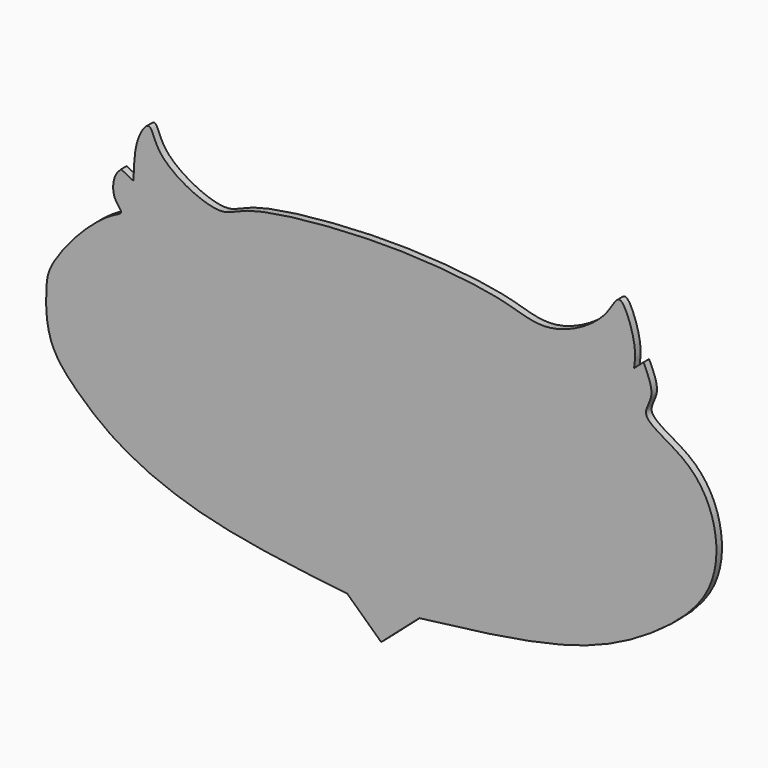
from build123d import *

# Parameters (mm, degrees)
F1_DEPTH = 1.5875
F2_DEPTH = 1.5875


with BuildPart() as f1:
    # F0 (on Front) → F1 (new body)
    with BuildSketch(Plane.XZ):
        with BuildLine():
            add(Edge.make_bspline(
                [(-59.2357292771, 0), (-59.7596059699, -0.5087763955), (-61.00374777, -1.7170568732), (-61.3623939884, -6.4442855853), (-58.3860835137, -8.7344477825), (-61.6361250655, -9.812548713), (-68.5333012636, -15.1619816081), (-75.7003591382, -24.3459306528), (-76.4504615567, -29.4899375643), (-76.3056806318, -40.2496750458), (-69.3199338704, -48.02035996), (-59.1909187166, -56.46900862), (-39.1926921937, -64.7251350769), (-18.9409775047, -67.0624654511), (-7.7288052998, -68.3565065265)],
                knots=[0, 0, 0, 0, 0.0430869026, 0.1023260194, 0.1480820916, 0.1886517783, 0.273749377, 0.368934231, 0.4329751281, 0.521535998, 0.6107122698, 0.7111554455, 0.8400839171, 1, 1, 1, 1], degree=3))
            Line((-7.7288052998, -68.3565065265), (0, -75.5522912198))
            Line((0, -75.5522912198), (8.6890272796, -67.9272785783))
            add(Edge.make_bspline(
                [(8.6890272796, -67.9272785783), (21.5020345675, -66.3925749588), (44.1191868011, -63.6835602353), (63.1430598193, -53.4908705309), (75.6969418313, -42.2147338387), (77.3134091979, -28.3935571418), (71.2293681343, -16.0138035637), (58.0845752111, -11.3266463316), (62.6777880395, -6.2052573904), (60.8058061073, -2.2149081201), (59.7667321563, 0)],
                knots=[0, 0, 0, 0, 0.2020750921, 0.3566971451, 0.4899081604, 0.6095954924, 0.7334616233, 0.8448841751, 0.9139004441, 1, 1, 1, 1], degree=3))
            Line((59.7667321563, 0), (57.6115497291, -1.891269612))
            add(Edge.make_bspline(
                [(57.6115497291, -1.891269612), (57.8173171438, -0.4763111229), (58.2831491365, 2.7269799993), (54.3955609907, 13.7165221365), (51.5061285832, 5.2868580937), (38.5436234556, -1.8540809789), (29.0588963585, 1.8983841422), (17.0728993683, 3.7264259799), (-2.5836330622, 5.0365044878), (-31.0291045292, 2.3116589866), (-36.5144885565, -2.8231885653), (-51.4195797017, 4.4231399421), (-52.351231671, 12.5665350661), (-56.2118192651, 7.0696730875), (-56.3328961042, 1.7719943046), (-56.4061077302, -1.4313572253)],
                knots=[0, 0, 0, 0, 0.0548014286, 0.1240636607, 0.1787700579, 0.2701907538, 0.3455821333, 0.4275645849, 0.5390950617, 0.6663997735, 0.7297150258, 0.8229317182, 0.8789043387, 0.9267769928, 1, 1, 1, 1], degree=3))
            Line((-56.4061077302, -1.4313572253), (-59.2357292771, 0))
        make_face()
        with BuildLine():
            ThreePointArc((62.7712979913, -48.2902638614), (36.0960540485, -60.801373499), (6.8648238666, -64.4934847951))
            Line((6.8648238666, -64.4934847951), (1.070294762, -70.7172378898))
            Line((1.070294762, -70.7172378898), (-5.4487906159, -64.6477442285))
            ThreePointArc((-5.4487906159, -64.6477442285), (-33.1849145902, -61.6573470529), (-59.1284260154, -51.4021404088))
            ThreePointArc((-59.1284260154, -51.4021404088), (-68.2041566517, -43.490922661), (-72.6489946246, -32.3016569018))
            ThreePointArc((-72.6489946246, -32.3016569018), (-70.5167481856, -24.2359465298), (-65.4594823718, -17.6007207483))
            ThreePointArc((-65.4594823718, -17.6007207483), (-60.7158899758, -13.6643104627), (-55.4800182581, -10.4112131521))
            ThreePointArc((-55.4800182581, -10.4112131521), (-57.7695720252, -7.8990729249), (-57.5188361108, -4.5093772933))
            ThreePointArc((-57.5188361108, -4.5093772933), (-54.6818050534, -6.009346749), (-51.5096895397, -6.4954915385))
            ThreePointArc((-51.5096895397, -6.4954915385), (-53.4709468256, -0.8916203218), (-53.7065769196, 5.0408649258))
            ThreePointArc((-53.7065769196, 5.0408649258), (-45.6081761104, -0.0632483052), (-37.1306762099, -4.5093772933))
            ThreePointArc((-37.1306762099, -4.5093772933), (0.2651828003, 1.2478062211), (37.7689823508, -3.7582353689))
            ThreePointArc((37.7689823508, -3.7582353689), (46.2458250792, -0.0220776028), (53.5429753363, 5.6847021915))
            ThreePointArc((53.5429753363, 5.6847021915), (54.6067557991, -0.7157013162), (52.2553026676, -6.7628049292))
            Line((52.2553026676, -6.7628049292), (58.3717487752, -4.2947647162))
            ThreePointArc((58.3717487752, -4.2947647162), (57.7853929693, -7.9420748723), (55.7964034379, -11.0550485551))
            ThreePointArc((55.7964034379, -11.0550485551), (65.3527326965, -17.9155744287), (71.5704038739, -27.9021058232))
            ThreePointArc((71.5704038739, -27.9021058232), (70.5523756086, -39.5555807138), (62.7712979913, -48.2902638614))
        make_face(mode=Mode.SUBTRACT)
        with BuildLine():
            Line((1.070294762, -70.7172378898), (6.8648238666, -64.4934847951))
            ThreePointArc((6.8648238666, -64.4934847951), (36.0960540485, -60.801373499), (62.7712979913, -48.2902638614))
            ThreePointArc((62.7712979913, -48.2902638614), (70.5523756086, -39.5555807138), (71.5704038739, -27.9021058232))
            ThreePointArc((71.5704038739, -27.9021058232), (65.3527326965, -17.9155744287), (55.7964034379, -11.0550485551))
            ThreePointArc((55.7964034379, -11.0550485551), (57.7853929693, -7.9420748723), (58.3717487752, -4.2947647162))
            Line((58.3717487752, -4.2947647162), (52.2553026676, -6.7628049292))
            ThreePointArc((52.2553026676, -6.7628049292), (54.6067557991, -0.7157013162), (53.5429753363, 5.6847021915))
            ThreePointArc((53.5429753363, 5.6847021915), (46.2458250792, -0.0220776028), (37.7689823508, -3.7582353689))
            ThreePointArc((37.7689823508, -3.7582353689), (0.2651828003, 1.2478062211), (-37.1306762099, -4.5093772933))
            ThreePointArc((-37.1306762099, -4.5093772933), (-45.6081761104, -0.0632483052), (-53.7065769196, 5.0408649258))
            ThreePointArc((-53.7065769196, 5.0408649258), (-53.4709468256, -0.8916203218), (-51.5096895397, -6.4954915385))
            ThreePointArc((-51.5096895397, -6.4954915385), (-54.6818050534, -6.009346749), (-57.5188361108, -4.5093772933))
            ThreePointArc((-57.5188361108, -4.5093772933), (-57.7695720252, -7.8990729249), (-55.4800182581, -10.4112131521))
            ThreePointArc((-55.4800182581, -10.4112131521), (-60.7158899758, -13.6643104627), (-65.4594823718, -17.6007207483))
            ThreePointArc((-65.4594823718, -17.6007207483), (-70.5167481856, -24.2359465298), (-72.6489946246, -32.3016569018))
            ThreePointArc((-72.6489946246, -32.3016569018), (-68.2041566517, -43.490922661), (-59.1284260154, -51.4021404088))
            ThreePointArc((-59.1284260154, -51.4021404088), (-33.1849145902, -61.6573470529), (-5.4487906159, -64.6477442285))
            Line((-5.4487906159, -64.6477442285), (1.070294762, -70.7172378898))
        make_face()
        with BuildLine():
            Line((-50.0074103475, -16.6349653155), (-48.6124269664, -17.8153328598))
            ThreePointArc((-48.6124269664, -17.8153328598), (-51.8600237223, -24.9776982035), (-51.617000252, -32.8381881118))
            Line((-51.617000252, -32.8381881118), (-55.265404284, -31.2285963446))
            add(Edge.make_bspline(
                [(-17.386354506, -50.1144677401), (-22.9724960998, -50.7953987205), (-34.2706963945, -52.172609533), (-50.5425044692, -43.6572072192), (-55.9866739518, -36.4960401055), (-55.4837729561, -32.8233462017), (-55.265404284, -31.2285963446)],
                knots=[0, 0, 0, 0, 0.3075519395, 0.6220364012, 0.8358813963, 1, 1, 1, 1], degree=3))
            Line((-17.386354506, -50.1144677401), (-19.6397826076, -54.7286309302))
            Line((-19.6397826076, -54.7286309302), (-13.4160285816, -53.1190410256))
            Line((-13.4160285816, -53.1190410256), (-9.3383966014, -60.4158528149))
            add(Edge.make_bspline(
                [(-50.0074103475, -16.6349653155), (-53.6208253934, -19.8234806389), (-60.8507431395, -26.2032358643), (-58.762664158, -42.3664765964), (-45.2648255888, -50.4822624002), (-35.7544140532, -56.0293491905), (-24.0468068887, -58.3858298268), (-9.5907632304, -60.4486232358), (-9.3576538975, -60.4183534217), (-9.3383966014, -60.4158528149)],
                knots=[0, 0, 0, 0, 0.1667763218, 0.3336951535, 0.5081392217, 0.6555495119, 0.821499441, 0.9852539661, 1, 1, 1, 1], degree=3))
        make_face(mode=Mode.SUBTRACT)
        with BuildLine():
            add(Edge.make_bspline(
                [(-40.3498597443, -22.5368011743), (-41.6391102014, -25.8708730448), (-44.2569145923, -32.6406577166), (-36.2841632265, -42.0200499295), (-19.5902032399, -44.9502171335), (-13.4243927469, -40.3096247345), (-10.6453151963, -38.2179992827)],
                knots=[0, 0, 0, 0, 0.2314315656, 0.4699184438, 0.7610796254, 1, 1, 1, 1], degree=3))
            Line((-40.3498597443, -22.5368011743), (-35.7662363223, -24.5589901806))
            add(Edge.make_bspline(
                [(-13.523333706, -36.7012061179), (-15.4137632298, -38.2771311693), (-19.5801724988, -41.7503887856), (-31.4195201419, -41.4414108341), (-38.8194485242, -33.5612417818), (-36.776895956, -27.5388722538), (-35.7662363223, -24.5589901806)],
                knots=[0, 0, 0, 0, 0.2280173022, 0.5025383857, 0.7538548673, 1, 1, 1, 1], degree=3))
            Line((-13.523333706, -36.7012061179), (-10.6453151963, -38.2179992827))
        make_face(mode=Mode.SUBTRACT)
        with BuildLine():
            ThreePointArc((-18.7813322991, -33.8039398193), (-24.8244059816, -35.7779646435), (-26.4000650495, -29.6190027148))
            Line((-26.4000650495, -29.6190027148), (-18.7813322991, -33.8039398193))
        make_face(mode=Mode.SUBTRACT)
        with BuildLine():
            ThreePointArc((1.4995191013, -37.2377373278), (7.8406058431, -51.9864878365), (0, -65.9957677126))
            ThreePointArc((0, -65.9957677126), (-6.7782408554, -53.7236985284), (-3.3292553853, -40.1349999011))
            ThreePointArc((-3.3292553853, -40.1349999011), (-4.9903607349, -51.2794326452), (0, -61.3816082478))
            Line((0, -61.3816082478), (1.4995191013, -37.2377373278))
        make_face(mode=Mode.SUBTRACT)
        with BuildLine():
            Line((11.461718307, -59.9891306942), (14.9127813056, -53.4409582615))
            Line((14.9127813056, -53.4409582615), (19.8488626629, -54.7286309302))
            Line((19.8488626629, -54.7286309302), (17.8100466728, -50.4363849759))
            add(Edge.make_bspline(
                [(17.8100466728, -50.4363849759), (22.8736972439, -50.6977149879), (32.8840342231, -51.2143386068), (46.4372168065, -46.5893989437), (55.8220494766, -37.9113824749), (55.879555258, -33.1297871275), (55.9037104249, -31.1212893575)],
                knots=[0, 0, 0, 0, 0.2851056864, 0.5636257785, 0.8167020446, 1, 1, 1, 1], degree=3))
            Line((55.9037104249, -31.1212893575), (52.1324010559, -32.9126605713))
            ThreePointArc((52.1324010559, -32.9126605713), (52.3343427132, -24.9303001847), (48.9288121462, -17.7080277354))
            Line((48.9288121462, -17.7080277354), (50.2245857241, -17.0925355389))
            ThreePointArc((50.2245857241, -17.0925355389), (55.152285008, -21.5169376862), (58.8009729981, -27.0436573774))
            ThreePointArc((58.8009729981, -27.0436573774), (58.1591030988, -37.1048918738), (52.5772199035, -45.5003082752))
            ThreePointArc((52.5772199035, -45.5003082752), (33.0881241824, -55.777284055), (11.461718307, -59.9891306942))
        make_face(mode=Mode.SUBTRACT)
        with BuildLine():
            Line((19.8488626629, -34.1258607805), (27.2529833019, -29.6190027148))
            ThreePointArc((27.2529833019, -29.6190027148), (25.8207552879, -35.6014402887), (19.8488626629, -34.1258607805))
        make_face(mode=Mode.SUBTRACT)
        with BuildLine():
            Line((35.6956343991, -25.2653629386), (40.9881621599, -22.7514132857))
            ThreePointArc((40.9881621599, -22.7514132857), (42.7533981745, -33.1083105218), (35.4767949976, -40.6867288759))
            ThreePointArc((35.4767949976, -40.6867288759), (22.6287955197, -43.1555219381), (10.5132311583, -38.2179992827))
            Line((10.5132311583, -38.2179992827), (14.2689440399, -36.271981895))
            ThreePointArc((14.2689440399, -36.271981895), (23.5486784179, -40.6867288759), (33.5840433836, -38.4742842924))
            ThreePointArc((33.5840433836, -38.4742842924), (38.2950984386, -32.4541569621), (35.6956343991, -25.2653629386))
        make_face(mode=Mode.SUBTRACT)
        with BuildLine():
            add(Edge.make_bspline(
                [(-50.6512448192, 0), (-49.9465646565, 0.6234373086), (-39.6465777283, -10.822659465), (-23.6643436705, -12.0991564868), (-10.4573806993, -21.1717940532), (-4.3437560779, -24.9584323596), (-0.2434439157, -36.9668415379), (-5.1097998002, -31.3621866583), (-12.4192891928, -25.9523472348), (-23.9809118135, -20.6913503107), (-36.0562860349, -16.1085291797), (-45.660706608, -11.9489061352), (-51.3032818782, -0.5768634492), (-50.6512448192, 0)],
                knots=[0, 0, 0, 0, 0.0981485842, 0.2149445601, 0.3211160362, 0.3998965502, 0.4797088254, 0.5318077649, 0.6183410319, 0.7170063852, 0.8150967729, 0.9091836019, 1, 1, 1, 1], degree=3))
        make_face(mode=Mode.SUBTRACT)
        with BuildLine():
            add(Edge.make_bspline(
                [(2.8944984078, -33.3747155964), (2.2737223281, -32.8508111555), (5.8582616163, -24.1643331539), (11.1966887984, -20.6828012031), (20.4091181596, -15.4189626268), (28.190893796, -11.370734004), (39.6560708791, -10.0568503783), (54.6284080306, 4.0328641758), (46.3253786103, -12.3225911195), (34.8879303244, -16.4717635447), (20.5751527115, -22.1502776194), (10.8228903495, -25.7378121215), (3.5496759959, -33.9276532163), (2.8944984078, -33.3747155964)],
                knots=[0, 0, 0, 0, 0.0797697978, 0.1557530683, 0.2439859946, 0.3252187516, 0.424447931, 0.5233385937, 0.6106688039, 0.7127052128, 0.8194563407, 0.9158096044, 1, 1, 1, 1], degree=3))
        make_face(mode=Mode.SUBTRACT)
        with BuildLine():
            ThreePointArc((-51.617000252, -32.8381881118), (-51.8600237223, -24.9776982035), (-48.6124269664, -17.8153328598))
            Line((-48.6124269664, -17.8153328598), (-50.0074103475, -16.6349653155))
            add(Edge.make_bspline(
                [(-50.0074103475, -16.6349653155), (-53.6208253934, -19.8234806389), (-60.8507431395, -26.2032358643), (-58.762664158, -42.3664765964), (-45.2648255888, -50.4822624002), (-35.7544140532, -56.0293491905), (-24.0468068887, -58.3858298268), (-9.5907632304, -60.4486232358), (-9.3576538975, -60.4183534217), (-9.3383966014, -60.4158528149)],
                knots=[0, 0, 0, 0, 0.1667763218, 0.3336951535, 0.5081392217, 0.6555495119, 0.821499441, 0.9852539661, 1, 1, 1, 1], degree=3))
            Line((-9.3383966014, -60.4158528149), (-13.4160285816, -53.1190410256))
            Line((-13.4160285816, -53.1190410256), (-19.6397826076, -54.7286309302))
            Line((-19.6397826076, -54.7286309302), (-17.386354506, -50.1144677401))
            add(Edge.make_bspline(
                [(-17.386354506, -50.1144677401), (-22.9724960998, -50.7953987205), (-34.2706963945, -52.172609533), (-50.5425044692, -43.6572072192), (-55.9866739518, -36.4960401055), (-55.4837729561, -32.8233462017), (-55.265404284, -31.2285963446)],
                knots=[0, 0, 0, 0, 0.3075519395, 0.6220364012, 0.8358813963, 1, 1, 1, 1], degree=3))
            Line((-55.265404284, -31.2285963446), (-51.617000252, -32.8381881118))
        make_face()
        with BuildLine():
            Line((19.8488626629, -54.7286309302), (14.9127813056, -53.4409582615))
            Line((14.9127813056, -53.4409582615), (11.461718307, -59.9891306942))
            ThreePointArc((11.461718307, -59.9891306942), (33.0881241824, -55.777284055), (52.5772199035, -45.5003082752))
            ThreePointArc((52.5772199035, -45.5003082752), (58.1591030988, -37.1048918738), (58.8009729981, -27.0436573774))
            ThreePointArc((58.8009729981, -27.0436573774), (55.152285008, -21.5169376862), (50.2245857241, -17.0925355389))
            Line((50.2245857241, -17.0925355389), (48.9288121462, -17.7080277354))
            ThreePointArc((48.9288121462, -17.7080277354), (52.3343427132, -24.9303001847), (52.1324010559, -32.9126605713))
            Line((52.1324010559, -32.9126605713), (55.9037104249, -31.1212893575))
            add(Edge.make_bspline(
                [(17.8100466728, -50.4363849759), (22.8736972439, -50.6977149879), (32.8840342231, -51.2143386068), (46.4372168065, -46.5893989437), (55.8220494766, -37.9113824749), (55.879555258, -33.1297871275), (55.9037104249, -31.1212893575)],
                knots=[0, 0, 0, 0, 0.2851056864, 0.5636257785, 0.8167020446, 1, 1, 1, 1], degree=3))
            Line((17.8100466728, -50.4363849759), (19.8488626629, -54.7286309302))
        make_face()
        with BuildLine():
            add(Edge.make_bspline(
                [(-50.6512448192, 0), (-49.9465646565, 0.6234373086), (-39.6465777283, -10.822659465), (-23.6643436705, -12.0991564868), (-10.4573806993, -21.1717940532), (-4.3437560779, -24.9584323596), (-0.2434439157, -36.9668415379), (-5.1097998002, -31.3621866583), (-12.4192891928, -25.9523472348), (-23.9809118135, -20.6913503107), (-36.0562860349, -16.1085291797), (-45.660706608, -11.9489061352), (-51.3032818782, -0.5768634492), (-50.6512448192, 0)],
                knots=[0, 0, 0, 0, 0.0981485842, 0.2149445601, 0.3211160362, 0.3998965502, 0.4797088254, 0.5318077649, 0.6183410319, 0.7170063852, 0.8150967729, 0.9091836019, 1, 1, 1, 1], degree=3))
        make_face()
        with BuildLine():
            add(Edge.make_bspline(
                [(2.8944984078, -33.3747155964), (2.2737223281, -32.8508111555), (5.8582616163, -24.1643331539), (11.1966887984, -20.6828012031), (20.4091181596, -15.4189626268), (28.190893796, -11.370734004), (39.6560708791, -10.0568503783), (54.6284080306, 4.0328641758), (46.3253786103, -12.3225911195), (34.8879303244, -16.4717635447), (20.5751527115, -22.1502776194), (10.8228903495, -25.7378121215), (3.5496759959, -33.9276532163), (2.8944984078, -33.3747155964)],
                knots=[0, 0, 0, 0, 0.0797697978, 0.1557530683, 0.2439859946, 0.3252187516, 0.424447931, 0.5233385937, 0.6106688039, 0.7127052128, 0.8194563407, 0.9158096044, 1, 1, 1, 1], degree=3))
        make_face()
        with BuildLine():
            ThreePointArc((-3.3292553853, -40.1349999011), (-6.7782408554, -53.7236985284), (0, -65.9957677126))
            ThreePointArc((0, -65.9957677126), (7.8406058431, -51.9864878365), (1.4995191013, -37.2377373278))
            Line((1.4995191013, -37.2377373278), (0, -61.3816082478))
            ThreePointArc((0, -61.3816082478), (-4.9903607349, -51.2794326452), (-3.3292553853, -40.1349999011))
        make_face()
        with BuildLine():
            ThreePointArc((35.4767949976, -40.6867288759), (42.7533981745, -33.1083105218), (40.9881621599, -22.7514132857))
            Line((40.9881621599, -22.7514132857), (35.6956343991, -25.2653629386))
            ThreePointArc((35.6956343991, -25.2653629386), (38.2950984386, -32.4541569621), (33.5840433836, -38.4742842924))
            ThreePointArc((33.5840433836, -38.4742842924), (23.5486784179, -40.6867288759), (14.2689440399, -36.271981895))
            Line((14.2689440399, -36.271981895), (10.5132311583, -38.2179992827))
            ThreePointArc((10.5132311583, -38.2179992827), (22.6287955197, -43.1555219381), (35.4767949976, -40.6867288759))
        make_face()
        with BuildLine():
            Line((-35.7662363223, -24.5589901806), (-40.3498597443, -22.5368011743))
            add(Edge.make_bspline(
                [(-40.3498597443, -22.5368011743), (-41.6391102014, -25.8708730448), (-44.2569145923, -32.6406577166), (-36.2841632265, -42.0200499295), (-19.5902032399, -44.9502171335), (-13.4243927469, -40.3096247345), (-10.6453151963, -38.2179992827)],
                knots=[0, 0, 0, 0, 0.2314315656, 0.4699184438, 0.7610796254, 1, 1, 1, 1], degree=3))
            Line((-10.6453151963, -38.2179992827), (-13.523333706, -36.7012061179))
            add(Edge.make_bspline(
                [(-13.523333706, -36.7012061179), (-15.4137632298, -38.2771311693), (-19.5801724988, -41.7503887856), (-31.4195201419, -41.4414108341), (-38.8194485242, -33.5612417818), (-36.776895956, -27.5388722538), (-35.7662363223, -24.5589901806)],
                knots=[0, 0, 0, 0, 0.2280173022, 0.5025383857, 0.7538548673, 1, 1, 1, 1], degree=3))
        make_face()
        with BuildLine():
            Line((-18.7813322991, -33.8039398193), (-26.4000650495, -29.6190027148))
            ThreePointArc((-26.4000650495, -29.6190027148), (-24.8244059816, -35.7779646435), (-18.7813322991, -33.8039398193))
        make_face()
        with BuildLine():
            ThreePointArc((19.8488626629, -34.1258607805), (25.8207552879, -35.6014402887), (27.2529833019, -29.6190027148))
            Line((27.2529833019, -29.6190027148), (19.8488626629, -34.1258607805))
        make_face()
    extrude(amount=F1_DEPTH)

    # F0 (on Front) → F2 (join)
    with BuildSketch(Plane.XZ):
        with BuildLine():
            add(Edge.make_bspline(
                [(-59.2357292771, 0), (-59.7596059699, -0.5087763955), (-61.00374777, -1.7170568732), (-61.3623939884, -6.4442855853), (-58.3860835137, -8.7344477825), (-61.6361250655, -9.812548713), (-68.5333012636, -15.1619816081), (-75.7003591382, -24.3459306528), (-76.4504615567, -29.4899375643), (-76.3056806318, -40.2496750458), (-69.3199338704, -48.02035996), (-59.1909187166, -56.46900862), (-39.1926921937, -64.7251350769), (-18.9409775047, -67.0624654511), (-7.7288052998, -68.3565065265)],
                knots=[0, 0, 0, 0, 0.0430869026, 0.1023260194, 0.1480820916, 0.1886517783, 0.273749377, 0.368934231, 0.4329751281, 0.521535998, 0.6107122698, 0.7111554455, 0.8400839171, 1, 1, 1, 1], degree=3))
            Line((-7.7288052998, -68.3565065265), (0, -75.5522912198))
            Line((0, -75.5522912198), (8.6890272796, -67.9272785783))
            add(Edge.make_bspline(
                [(8.6890272796, -67.9272785783), (21.5020345675, -66.3925749588), (44.1191868011, -63.6835602353), (63.1430598193, -53.4908705309), (75.6969418313, -42.2147338387), (77.3134091979, -28.3935571418), (71.2293681343, -16.0138035637), (58.0845752111, -11.3266463316), (62.6777880395, -6.2052573904), (60.8058061073, -2.2149081201), (59.7667321563, 0)],
                knots=[0, 0, 0, 0, 0.2020750921, 0.3566971451, 0.4899081604, 0.6095954924, 0.7334616233, 0.8448841751, 0.9139004441, 1, 1, 1, 1], degree=3))
            Line((59.7667321563, 0), (57.6115497291, -1.891269612))
            add(Edge.make_bspline(
                [(57.6115497291, -1.891269612), (57.8173171438, -0.4763111229), (58.2831491365, 2.7269799993), (54.3955609907, 13.7165221365), (51.5061285832, 5.2868580937), (38.5436234556, -1.8540809789), (29.0588963585, 1.8983841422), (17.0728993683, 3.7264259799), (-2.5836330622, 5.0365044878), (-31.0291045292, 2.3116589866), (-36.5144885565, -2.8231885653), (-51.4195797017, 4.4231399421), (-52.351231671, 12.5665350661), (-56.2118192651, 7.0696730875), (-56.3328961042, 1.7719943046), (-56.4061077302, -1.4313572253)],
                knots=[0, 0, 0, 0, 0.0548014286, 0.1240636607, 0.1787700579, 0.2701907538, 0.3455821333, 0.4275645849, 0.5390950617, 0.6663997735, 0.7297150258, 0.8229317182, 0.8789043387, 0.9267769928, 1, 1, 1, 1], degree=3))
            Line((-56.4061077302, -1.4313572253), (-59.2357292771, 0))
        make_face()
        with BuildLine():
            ThreePointArc((62.7712979913, -48.2902638614), (36.0960540485, -60.801373499), (6.8648238666, -64.4934847951))
            Line((6.8648238666, -64.4934847951), (1.070294762, -70.7172378898))
            Line((1.070294762, -70.7172378898), (-5.4487906159, -64.6477442285))
            ThreePointArc((-5.4487906159, -64.6477442285), (-33.1849145902, -61.6573470529), (-59.1284260154, -51.4021404088))
            ThreePointArc((-59.1284260154, -51.4021404088), (-68.2041566517, -43.490922661), (-72.6489946246, -32.3016569018))
            ThreePointArc((-72.6489946246, -32.3016569018), (-70.5167481856, -24.2359465298), (-65.4594823718, -17.6007207483))
            ThreePointArc((-65.4594823718, -17.6007207483), (-60.7158899758, -13.6643104627), (-55.4800182581, -10.4112131521))
            ThreePointArc((-55.4800182581, -10.4112131521), (-57.7695720252, -7.8990729249), (-57.5188361108, -4.5093772933))
            ThreePointArc((-57.5188361108, -4.5093772933), (-54.6818050534, -6.009346749), (-51.5096895397, -6.4954915385))
            ThreePointArc((-51.5096895397, -6.4954915385), (-53.4709468256, -0.8916203218), (-53.7065769196, 5.0408649258))
            ThreePointArc((-53.7065769196, 5.0408649258), (-45.6081761104, -0.0632483052), (-37.1306762099, -4.5093772933))
            ThreePointArc((-37.1306762099, -4.5093772933), (0.2651828003, 1.2478062211), (37.7689823508, -3.7582353689))
            ThreePointArc((37.7689823508, -3.7582353689), (46.2458250792, -0.0220776028), (53.5429753363, 5.6847021915))
            ThreePointArc((53.5429753363, 5.6847021915), (54.6067557991, -0.7157013162), (52.2553026676, -6.7628049292))
            Line((52.2553026676, -6.7628049292), (58.3717487752, -4.2947647162))
            ThreePointArc((58.3717487752, -4.2947647162), (57.7853929693, -7.9420748723), (55.7964034379, -11.0550485551))
            ThreePointArc((55.7964034379, -11.0550485551), (65.3527326965, -17.9155744287), (71.5704038739, -27.9021058232))
            ThreePointArc((71.5704038739, -27.9021058232), (70.5523756086, -39.5555807138), (62.7712979913, -48.2902638614))
        make_face(mode=Mode.SUBTRACT)
    extrude(amount=F2_DEPTH)


solid = f1.part
